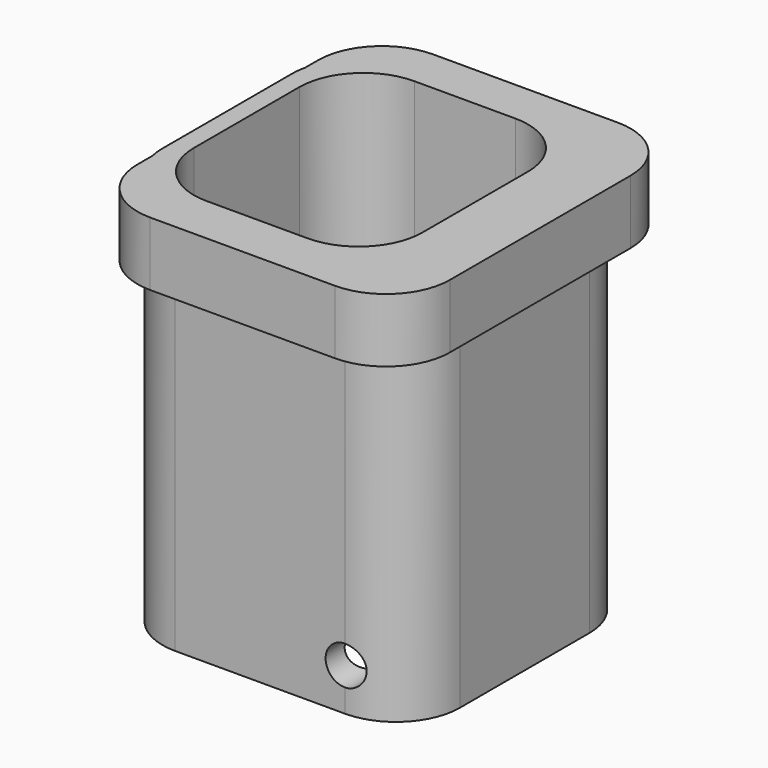
from build123d import *

# Parameters (mm, degrees)
F1_DEPTH = 31
F3_DEPTH = 5
F4_DEPTH = 25
F5_R     = 1.5148959557
F6_DEPTH = 25


with BuildPart() as f1:
    # F0 (on Top) → F1 (new body)
    with BuildSketch(Plane.XY):
        with BuildLine():
            Line((7.263335404, 11.3065338519), (-6.0320308013, 11.3065338519))
            ThreePointArc((-6.0320308013, 11.3065338519), (-9.5675647072, 9.8420677578), (-11.0320308013, 6.3065338519))
            Line((-11.0320308013, 6.3065338519), (-11.0320308013, -6.3793600758))
            ThreePointArc((-11.0320308013, -6.3793600758), (-9.5675647072, -9.9148939817), (-6.0320308013, -11.3793600758))
            Line((-6.0320308013, -11.3793600758), (7.263335404, -11.3793600758))
            ThreePointArc((7.263335404, -11.3793600758), (10.7988693099, -9.9148939817), (12.263335404, -6.3793600758))
            Line((12.263335404, -6.3793600758), (12.263335404, 6.3065338519))
            ThreePointArc((12.263335404, 6.3065338519), (10.7988693099, 9.8420677578), (7.263335404, 11.3065338519))
        make_face()
        with BuildLine():
            Line((-4.572982206, 10.2046227839), (3.3416776033, 10.2046227839))
            ThreePointArc((3.3416776033, 10.2046227839), (6.8772115092, 8.7401566899), (8.3416776033, 5.2046227839))
            Line((8.3416776033, 5.2046227839), (8.3416776033, -5.13179656))
            ThreePointArc((8.3416776033, -5.13179656), (6.8772115092, -8.667330466), (3.3416776033, -10.13179656))
            Line((3.3416776033, -10.13179656), (-4.572982206, -10.13179656))
            ThreePointArc((-4.572982206, -10.13179656), (-8.1085161119, -8.667330466), (-9.572982206, -5.13179656))
            Line((-9.572982206, -5.13179656), (-9.572982206, 5.2046227839))
            ThreePointArc((-9.572982206, 5.2046227839), (-8.1085161119, 8.7401566899), (-4.572982206, 10.2046227839))
        make_face(mode=Mode.SUBTRACT)
    extrude(amount=F1_DEPTH)

    # F2 (on face) → F3 (join)
    with BuildSketch(Plane.XY.offset(31)):
        with BuildLine():
            ThreePointArc((13.5774351656, 8.6966696009), (12.1129690716, 12.2322035068), (8.5774351656, 13.6966696009))
            Line((8.5774351656, 13.6966696009), (-5.9024299309, 13.6966696009))
            ThreePointArc((-5.9024299309, 13.6966696009), (-9.4379638368, 12.2322035068), (-10.9024299309, 8.6966696009))
            Line((-10.9024299309, 8.6966696009), (-10.9024299309, -8.9936683699))
            ThreePointArc((-10.9024299309, -8.9936683699), (-9.4379638368, -12.5292022759), (-5.9024299309, -13.9936683699))
            Line((-5.9024299309, -13.9936683699), (8.5774351656, -13.9936683699))
            ThreePointArc((8.5774351656, -13.9936683699), (12.1129690716, -12.5292022759), (13.5774351656, -8.9936683699))
            Line((13.5774351656, -8.9936683699), (13.5774351656, 8.6966696009))
        make_face()
    extrude(amount=-F3_DEPTH)

    # F2 (on face) → F4 (cut)
    with BuildSketch(Plane.XY.offset(31)):
        with BuildLine():
            Line((3.3416776033, 10.2046227839), (-4.572982206, 10.2046227839))
            ThreePointArc((-4.572982206, 10.2046227839), (-8.1085161119, 8.7401566899), (-9.572982206, 5.2046227839))
            Line((-9.572982206, 5.2046227839), (-9.572982206, -5.13179656))
            ThreePointArc((-9.572982206, -5.13179656), (-8.1085161119, -8.667330466), (-4.572982206, -10.13179656))
            Line((-4.572982206, -10.13179656), (3.3416776033, -10.13179656))
            ThreePointArc((3.3416776033, -10.13179656), (6.8772115092, -8.667330466), (8.3416776033, -5.13179656))
            Line((8.3416776033, -5.13179656), (8.3416776033, 5.2046227839))
            ThreePointArc((8.3416776033, 5.2046227839), (6.8772115092, 8.7401566899), (3.3416776033, 10.2046227839))
        make_face()
    extrude(amount=-F4_DEPTH, mode=Mode.SUBTRACT)

    # F5 (on face) → F6 (cut)
    with BuildSketch(Plane.XZ.offset(11.3793600758)):
        with Locations((7.263335404, 3.3230453264)):
            Circle(F5_R)
    extrude(amount=-F6_DEPTH, mode=Mode.SUBTRACT)


solid = f1.part
